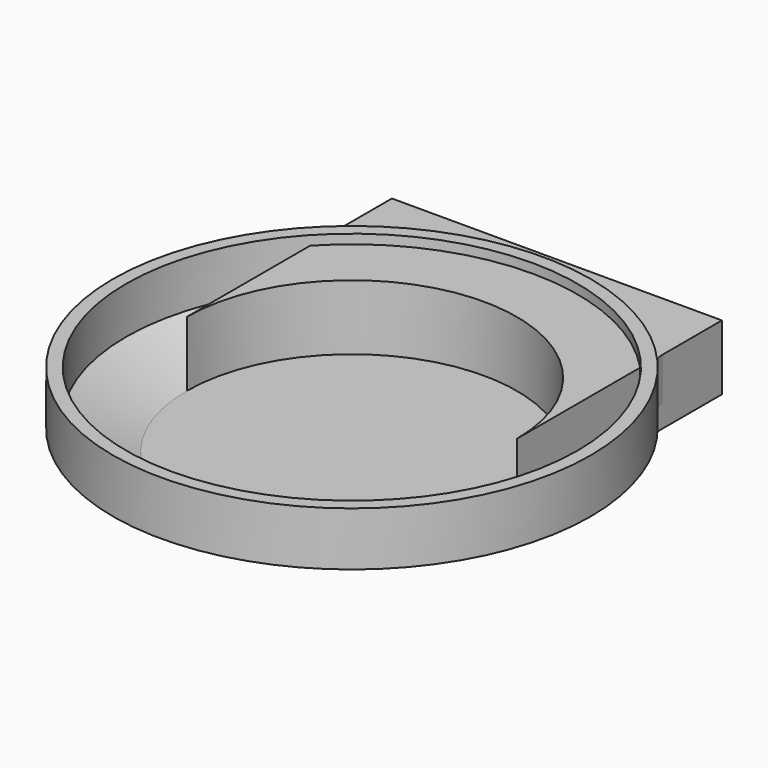
from build123d import *

# Parameters (mm, degrees)
F3_DEPTH = 15
F4_R     = 5


with BuildPart() as f1:
    # F0 (on Front) → F1 (revolve)
    with BuildSketch(Plane.XZ):
        Polygon((0, 3), (0, 0), (38, 0), (55, 7.7617389267), (55, 20.1544902792), (52, 20.1544902792), (52, 9.3920202926), (38, 3), align=None)
    revolve(axis=Axis((0, 0, 1.5), (0, 0, -1)))

    # F2 (on face) → F3 (join)
    with BuildSketch(Plane.XY.offset(3)):
        with BuildLine():
            Line((-38, 59.0290650725), (-38, 0))
            ThreePointArc((-38, 0), (0, 38), (38, 0))
            Line((38, 0), (38, 59.0290650725))
            Line((38, 59.0290650725), (-38, 59.0290650725))
        make_face()
    extrude(amount=F3_DEPTH)

    # F4
    f4_edges = [f1.edges().sort_by_distance(p)[0] for p in [
        (38, 39.761791, 12.880869),
        (-38, 39.761791, 12.880869),
    ]]
    fillet(f4_edges, radius=F4_R)


solid = f1.part
